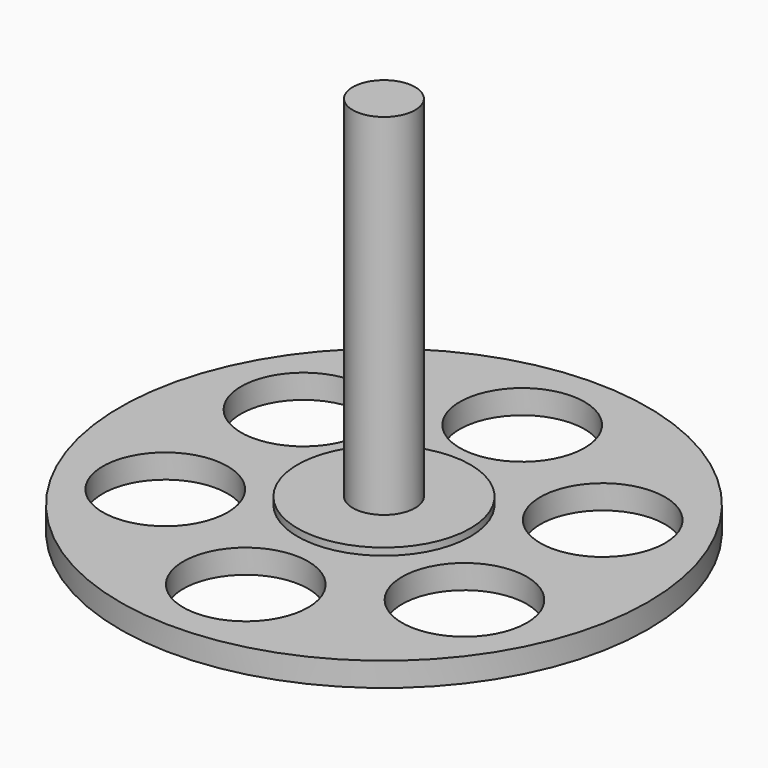
from build123d import *

# Parameters (mm, degrees)
F0_R     = 55
F1_DEPTH = 5
F2_R     = 18
F3_DEPTH = 1.5
F4_R     = 6.5
F5_DEPTH = 73
F6_R     = 13
F7_DEPTH = 5.001


with BuildPart() as f1:
    # F0 (on Top) → F1 (new body)
    with BuildSketch(Plane.XY):
        Circle(F0_R)
    extrude(amount=F1_DEPTH)

    # F2 (on face) → F3 (join)
    with BuildSketch(Plane.XY.offset(5)):
        Circle(F2_R)
    extrude(amount=F3_DEPTH)

    # F4 (on face) → F5 (join)
    with BuildSketch(Plane.XY.offset(6.5)):
        Circle(F4_R)
    extrude(amount=F5_DEPTH)

    # F6 (on face) → F7 (cut, through all)
    with BuildSketch(Plane.XY.offset(5)):
        with Locations((0, 36)):
            Circle(F6_R)
        with Locations((-31.176915, 18)):
            Circle(F6_R)
        with Locations((-31.176915, -18)):
            Circle(F6_R)
        with Locations((0, -36)):
            Circle(F6_R)
        with Locations((31.176915, -18)):
            Circle(F6_R)
        with Locations((31.176915, 18)):
            Circle(F6_R)
    extrude(amount=-F7_DEPTH, mode=Mode.SUBTRACT)


solid = f1.part
